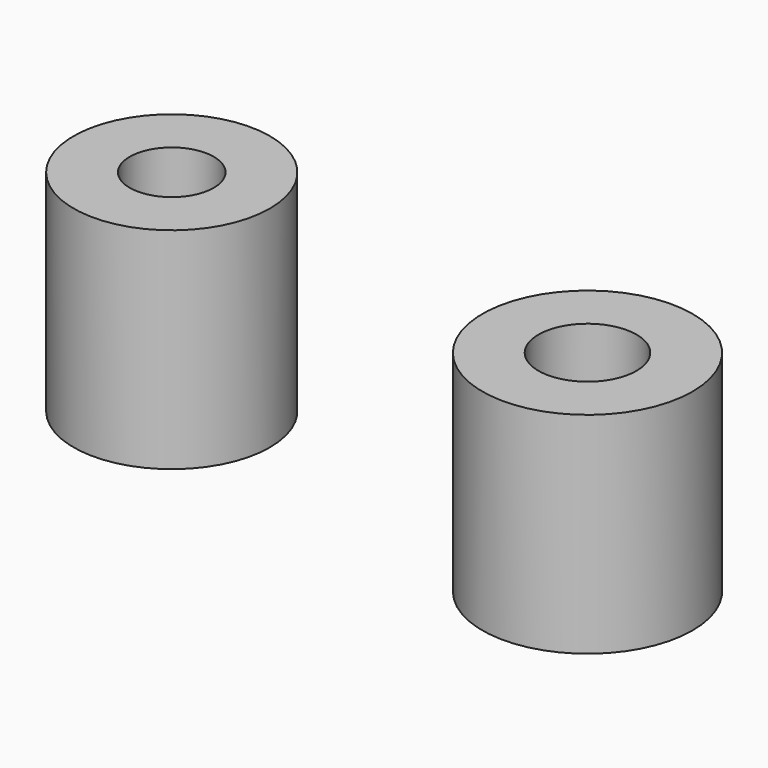
from build123d import *

# Parameters (mm, degrees)
F0_R     = 10.5
F0_R_2   = 4.5
F0_R_3   = 11.25
F0_R_4   = 5.25
F1_DEPTH = 22.5


with BuildPart() as f1:
    # F0 (on Top) → F1 (new body)
    with BuildSketch(Plane.XY):
        Circle(F0_R)
        Circle(F0_R_2, mode=Mode.SUBTRACT)
        with Locations((47.515417, -3.79264)):
            Circle(F0_R_3)
        with Locations((47.515417, -3.79264)):
            Circle(F0_R_4, mode=Mode.SUBTRACT)
    extrude(amount=F1_DEPTH)


solid = f1.part
